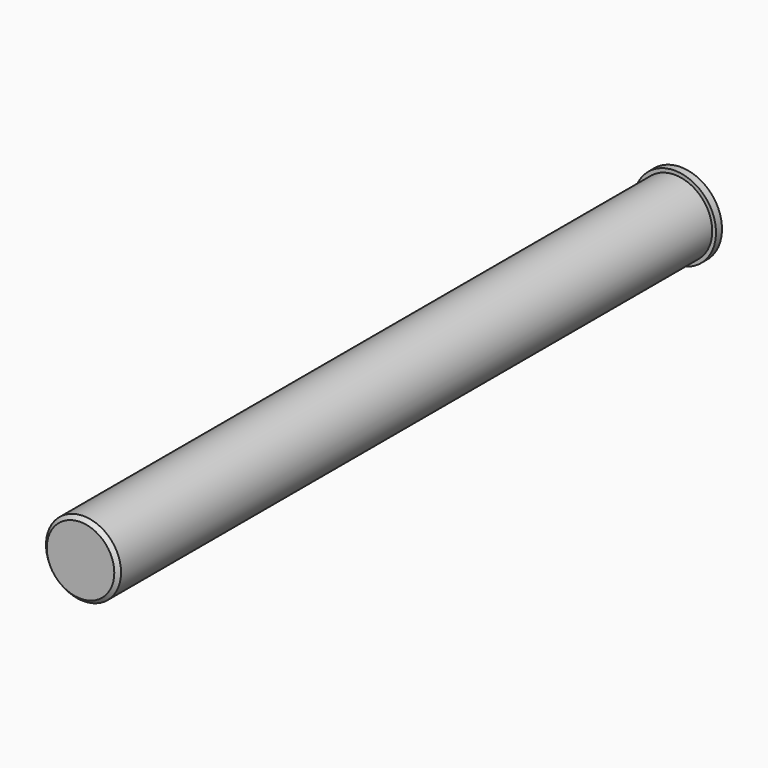
from build123d import *

# Parameters (mm, degrees)
F0_R     = 5
F1_DEPTH = 100
F2_SIZE  = 0.5
F3_R     = 5.5
F4_DEPTH = 1


with BuildPart() as f1:
    # F0 (on Front) → F1 (new body)
    with BuildSketch(Plane.XZ):
        Circle(F0_R)
    extrude(amount=F1_DEPTH)

    # F2
    f2_edges = [f1.edges().sort_by_distance(p)[0] for p in [
        (-5, -100, 0),
    ]]
    chamfer(f2_edges, length=F2_SIZE)

    # F3 (on face) → F4 (join)
    with BuildSketch(Plane(origin=(0, 0, 0), x_dir=(-1, 0, 0), z_dir=(0, 1, 0))):
        Circle(F3_R)
    extrude(amount=-F4_DEPTH)


solid = f1.part
